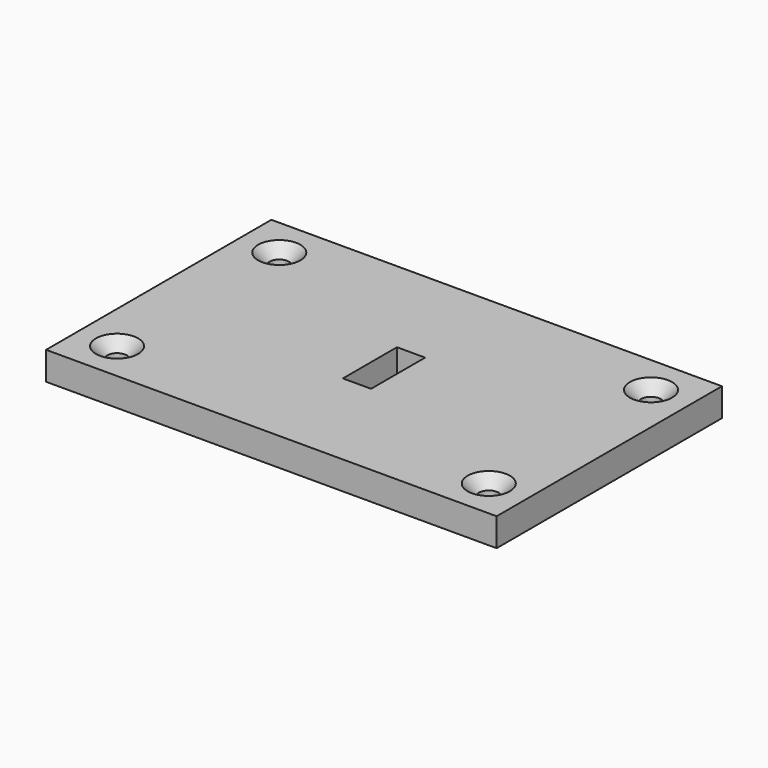
from build123d import *

# Parameters (mm, degrees)
F0_W           = 800
F0_H           = 500
F0_R           = 17.5
F0_W_2         = 50
F0_H_2         = 120
F1_DEPTH       = 50
F2_D           = 35
F2_CSINK_D     = 75
F2_CSINK_ANGLE = 90


with BuildPart() as f1:
    # F0 (on Top) → F1 (new body)
    with BuildSketch(Plane.XY):
        Rectangle(F0_W, F0_H)
        with Locations((-330, -180)):
            Circle(F0_R, mode=Mode.SUBTRACT)
        with Locations((330, -180)):
            Circle(F0_R, mode=Mode.SUBTRACT)
        Rectangle(F0_W_2, F0_H_2, mode=Mode.SUBTRACT)
        with Locations((-330, 180)):
            Circle(F0_R, mode=Mode.SUBTRACT)
        with Locations((330, 180)):
            Circle(F0_R, mode=Mode.SUBTRACT)
        with Locations((-330, -180)):
            Circle(F0_R)
        with Locations((-330, 180)):
            Circle(F0_R)
        with Locations((330, 180)):
            Circle(F0_R)
        with Locations((330, -180)):
            Circle(F0_R)
    extrude(amount=-F1_DEPTH)

    # F2 (through all)
    with Locations(Plane.XY):
        with Locations((-330, -180), (-330, 180), (330, 180), (330, -180)):
            CounterSinkHole(F2_D / 2, F2_CSINK_D / 2, counter_sink_angle=F2_CSINK_ANGLE)


solid = f1.part
